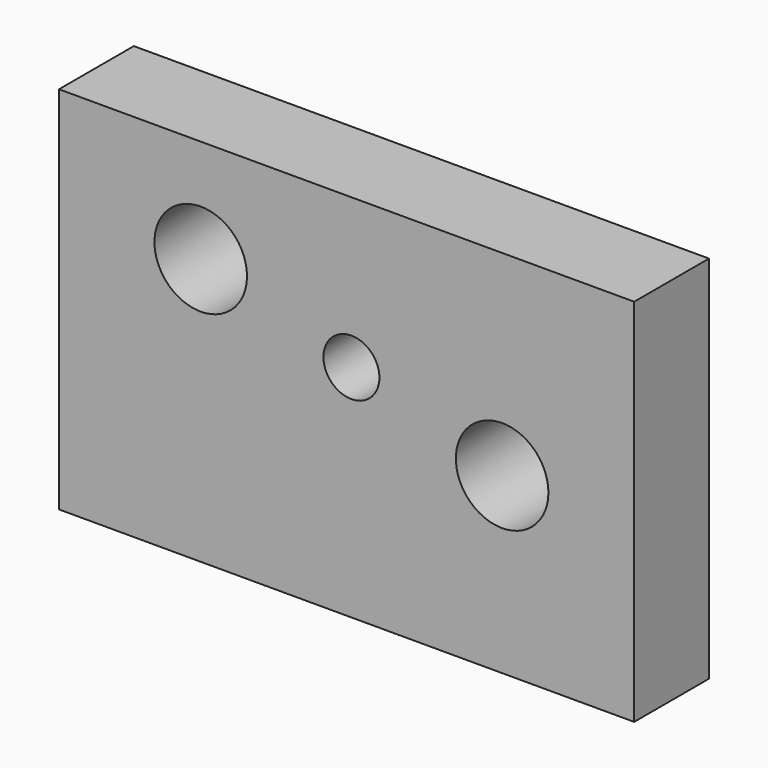
from build123d import *

# Parameters (mm, degrees)
F0_W     = 157.835335
F0_H     = 101.512231
F1_DEPTH = 25.654
F2_R     = 12.7
F2_R_2   = 7.682586
F3_DEPTH = 25.655


with BuildPart() as f1:
    # F0 (on Front) → F1 (new body)
    with BuildSketch(Plane.XZ):
        with Locations((78.917667, 50.756115)):
            Rectangle(F0_W, F0_H)
    extrude(amount=-F1_DEPTH)

    # F2 (on face) → F3 (cut, through all)
    with BuildSketch(Plane.XZ):
        with Locations((38.884783, 73.12625)):
            Circle(F2_R)
        with Locations((121.596025, 47.72625)):
            Circle(F2_R)
        with Locations((80.240404, 60.42625)):
            Circle(F2_R_2)
    extrude(amount=-F3_DEPTH, mode=Mode.SUBTRACT)


solid = f1.part
